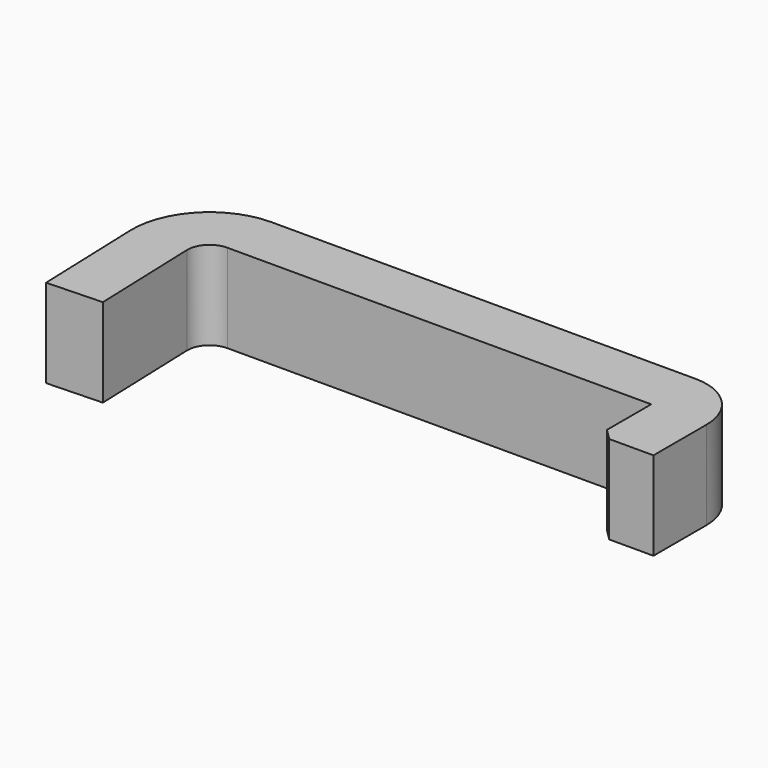
from build123d import *

# Parameters (mm, degrees)
F1_DEPTH = 8
F2_SIZE  = 1
F3_R     = 7
F4_R     = 5


with BuildPart() as f1:
    # F0 (on Top) → F1 (new body)
    with BuildSketch(Plane.XY):
        with BuildLine():
            Line((-44.996954, -12.174497), (-40, -12))
            Line((-40, -12), (-40.34677, -2.069799))
            ThreePointArc((-40.34677, -2.069799), (-39.786668, -0.610683), (-38.347989, 0))
            Line((-38.347989, 0), (0, 0))
            Line((0, 0), (0, -6))
            Line((0, -6), (5, -6))
            Line((5, -6), (5, 5))
            Line((5, 5), (-45.596701, 5))
            Line((-45.596701, 5), (-44.996954, -12.174497))
        make_face()
    extrude(amount=F1_DEPTH)

    # F2
    f2_edges = [f1.edges().sort_by_distance(p)[0] for p in [
        (0, -6, 4),
    ]]
    chamfer(f2_edges, length=F2_SIZE)

    # F3
    f3_edges = [f1.edges().sort_by_distance(p)[0] for p in [
        (-45.596701, 5, 4),
    ]]
    fillet(f3_edges, radius=F3_R)

    # F4
    f4_edges = [f1.edges().sort_by_distance(p)[0] for p in [
        (5, 5, 4),
    ]]
    fillet(f4_edges, radius=F4_R)


solid = f1.part
